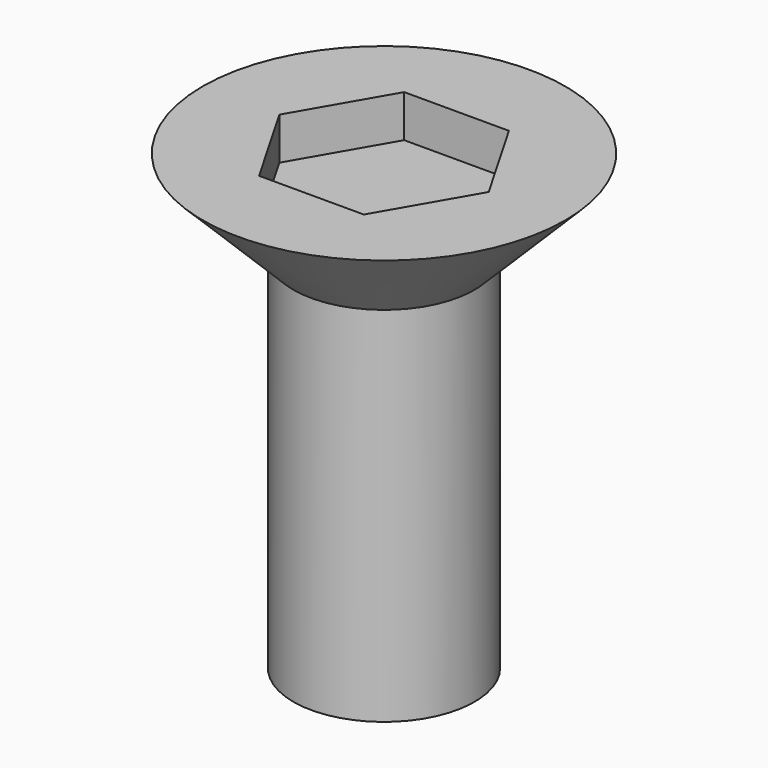
from build123d import *

# Parameters (mm, degrees)
F3_DEPTH = 0.7


with BuildPart() as f1:
    # F0 (on Front) → F1 (revolve)
    with BuildSketch(Plane.XZ):
        Polygon((-1.5, 0), (-1.5, -6), (0, -6), (0, 1.5), (-3, 1.5), align=None)
    revolve(axis=Axis((0, 0, -4.202494), (0, 0, -1)))

    # F2 (on face) → F3 (cut)
    with BuildSketch(Plane.XY.offset(1.5)):
        Polygon((-0.866025, -1.5), (0.866025, -1.5), (1.732051, 0), (0.866025, 1.5), (-0.866025, 1.5), (-1.732051, 0), align=None)
    extrude(amount=-F3_DEPTH, mode=Mode.SUBTRACT)


solid = f1.part
